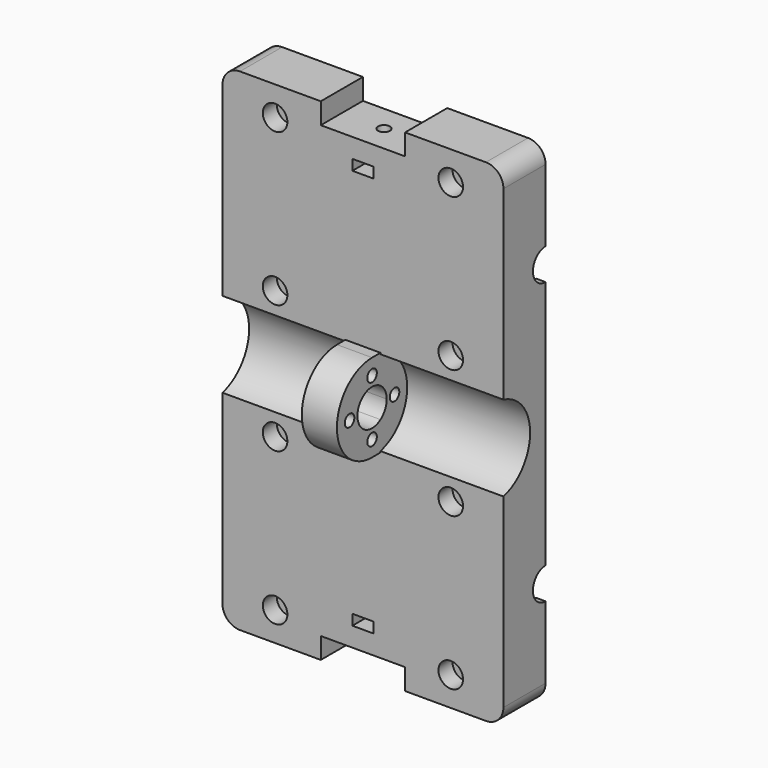
from build123d import *

# Parameters (mm, degrees)
F0_W      = 6
F0_H      = 3
F1_DEPTH  = 15
F4_DEPTH  = 80
F2_W      = 2.7
F2_H      = 15.4
F5_DEPTH  = 10
F2_R      = 1.7
F6_DEPTH  = 25
F2_R_2    = 3.5
F7_DEPTH  = 25
F8_DEPTH  = 10
F9_W      = 10
F9_H      = 25
F10_DEPTH = 25
F11_R     = 1.7
F13_DEPTH = 50
F14_DEPTH = 50
F12_R     = 1.7
F15_DEPTH = 6
F16_DEPTH = 10
F17_DEPTH = 18
F18_R     = 1.7
F19_DEPTH = 6
F20_DEPTH = 25
F21_DEPTH = 18
F22_DEPTH = 80


with BuildPart() as f1:
    # F0 (on Front) → F1 (new body)
    with BuildSketch(Plane.XZ):
        with BuildLine():
            Line((35, 70), (-35, 70))
            ThreePointArc((-35, 70), (-38.5355339059, 68.5355339059), (-40, 65))
            Line((-40, 65), (-40, -65))
            ThreePointArc((-40, -65), (-38.5355339059, -68.5355339059), (-35, -70))
            Line((-35, -70), (35, -70))
            ThreePointArc((35, -70), (38.5355339059, -68.5355339059), (40, -65))
            Line((40, -65), (40, 65))
            ThreePointArc((40, 65), (38.5355339059, 68.5355339059), (35, 70))
        make_face()
        with Locations((0, -57)):
            Rectangle(F0_W, F0_H, mode=Mode.SUBTRACT)
        with Locations((0, 57)):
            Rectangle(F0_W, F0_H, mode=Mode.SUBTRACT)
    extrude(amount=F1_DEPTH)

    # F3 (on face) → F4 (cut)
    with BuildSketch(Plane(origin=(-40, 0, 0), x_dir=(0, -1, 0), z_dir=(-1, 0, 0))):
        with BuildLine():
            ThreePointArc((0, 32.3), (5.4447222151, 34.5552777849), (7.7, 40))
            ThreePointArc((7.7, 40), (5.4447222151, 45.4447222151), (0, 47.7))
            Line((0, 47.7), (0, 44.5))
            ThreePointArc((0, 44.5), (3.1819805153, 43.1819805153), (4.5, 40))
            ThreePointArc((4.5, 40), (3.1819805153, 36.8180194847), (0, 35.5))
            Line((0, 35.5), (0, 32.3))
        make_face()
        with BuildLine():
            ThreePointArc((7.7, -40), (5.4447222151, -34.5552777849), (0, -32.3))
            Line((0, -32.3), (0, -35.5))
            ThreePointArc((0, -35.5), (3.1819805153, -36.8180194847), (4.5, -40))
            ThreePointArc((4.5, -40), (3.1819805153, -43.1819805153), (0, -44.5))
            Line((0, -44.5), (0, -47.7))
            ThreePointArc((0, -47.7), (5.4447222151, -45.4447222151), (7.7, -40))
        make_face()
    extrude(amount=-F4_DEPTH, mode=Mode.SUBTRACT)

    # F2 (on face) → F5 (join)
    with BuildSketch(Plane(origin=(0, 0, 0), x_dir=(-1, 0, 0), z_dir=(0, 1, 0))):
        with Locations((-38.65, 40)):
            Rectangle(F2_W, F2_H)
        Polygon((12.7, 47.7), (0, 47.7), (-12.7, 47.7), (-12.7, 32.3), (0, 32.3), (12.7, 32.3), align=None)
        with Locations((38.65, 40)):
            Rectangle(F2_W, F2_H)
        with Locations((-38.65, -40)):
            Rectangle(F2_W, F2_H)
        Polygon((0, -32.3), (-12.7, -32.3), (-12.7, -47.7), (0, -47.7), (12.7, -47.7), (12.7, -32.3), align=None)
        with Locations((38.65, -40)):
            Rectangle(F2_W, F2_H)
    extrude(amount=-F5_DEPTH)

    # F2 (on face) → F6 (cut)
    with BuildSketch(Plane(origin=(0, 0, 0), x_dir=(-1, 0, 0), z_dir=(0, 1, 0))):
        with Locations((-25, 61.7)):
            Circle(F2_R)
        with Locations((25, 61.7)):
            Circle(F2_R)
        with Locations((-25, 18.3)):
            Circle(F2_R)
        with Locations((25, 18.3)):
            Circle(F2_R)
        with Locations((-25, -18.3)):
            Circle(F2_R)
        with Locations((25, -18.3)):
            Circle(F2_R)
        with Locations((-25, -61.7)):
            Circle(F2_R)
        with Locations((25, -61.7)):
            Circle(F2_R)
    extrude(amount=-F6_DEPTH, mode=Mode.SUBTRACT)

    # F2 (on face) → F7 (cut)
    with BuildSketch(Plane(origin=(0, 0, 0), x_dir=(-1, 0, 0), z_dir=(0, 1, 0))):
        with Locations((-25, 61.7)):
            Circle(F2_R_2)
        with Locations((-25, 61.7)):
            Circle(F2_R, mode=Mode.SUBTRACT)
        with Locations((25, 61.7)):
            Circle(F2_R_2)
        with Locations((25, 61.7)):
            Circle(F2_R, mode=Mode.SUBTRACT)
        with Locations((-25, 18.3)):
            Circle(F2_R_2)
        with Locations((-25, 18.3)):
            Circle(F2_R, mode=Mode.SUBTRACT)
        with Locations((25, 18.3)):
            Circle(F2_R_2)
        with Locations((25, 18.3)):
            Circle(F2_R, mode=Mode.SUBTRACT)
        with Locations((-25, -18.3)):
            Circle(F2_R_2)
        with Locations((-25, -18.3)):
            Circle(F2_R, mode=Mode.SUBTRACT)
        with Locations((25, -18.3)):
            Circle(F2_R_2)
        with Locations((25, -18.3)):
            Circle(F2_R, mode=Mode.SUBTRACT)
        with Locations((-25, -61.7)):
            Circle(F2_R_2)
        with Locations((-25, -61.7)):
            Circle(F2_R, mode=Mode.SUBTRACT)
        with Locations((25, -61.7)):
            Circle(F2_R_2)
        with Locations((25, -61.7)):
            Circle(F2_R, mode=Mode.SUBTRACT)
    extrude(amount=-F7_DEPTH, mode=Mode.SUBTRACT)

    # F2 (on face) → F8 (join)
    with BuildSketch(Plane(origin=(0, 0, 0), x_dir=(-1, 0, 0), z_dir=(0, 1, 0))):
        with Locations((-25, 61.7)):
            Circle(F2_R_2)
        with Locations((-25, 61.7)):
            Circle(F2_R, mode=Mode.SUBTRACT)
        with Locations((25, 61.7)):
            Circle(F2_R_2)
        with Locations((25, 61.7)):
            Circle(F2_R, mode=Mode.SUBTRACT)
        with Locations((-25, 18.3)):
            Circle(F2_R_2)
        with Locations((-25, 18.3)):
            Circle(F2_R, mode=Mode.SUBTRACT)
        with Locations((25, 18.3)):
            Circle(F2_R_2)
        with Locations((25, 18.3)):
            Circle(F2_R, mode=Mode.SUBTRACT)
        with Locations((-25, -18.3)):
            Circle(F2_R_2)
        with Locations((-25, -18.3)):
            Circle(F2_R, mode=Mode.SUBTRACT)
        with Locations((25, -18.3)):
            Circle(F2_R_2)
        with Locations((25, -18.3)):
            Circle(F2_R, mode=Mode.SUBTRACT)
        with Locations((-25, -61.7)):
            Circle(F2_R_2)
        with Locations((-25, -61.7)):
            Circle(F2_R, mode=Mode.SUBTRACT)
        with Locations((25, -61.7)):
            Circle(F2_R_2)
        with Locations((25, -61.7)):
            Circle(F2_R, mode=Mode.SUBTRACT)
    extrude(amount=-F8_DEPTH)

    # F9 (on face) → F10 (join)
    with BuildSketch(Plane.XZ.offset(15)):
        Rectangle(F9_W, F9_H)
    extrude(amount=F10_DEPTH)

    # F11 (on face) → F13 (cut, symmetric)
    with BuildSketch(Plane.YZ.offset(5)):
        with BuildLine():
            ThreePointArc((-15, -4.2473521163), (-13.3826414478, -2.3916521486), (-12.8, 0))
            ThreePointArc((-12.8, 0), (-13.3826414478, 2.3916521486), (-15, 4.2473521163))
            Line((-15, 4.2473521163), (-15, -4.2473521163))
        make_face()
        with BuildLine():
            Line((-15, -4.2473521163), (-15, 4.2473521163))
            ThreePointArc((-15, 4.2473521163), (-23.2, 0), (-15, -4.2473521163))
        make_face()
        with Locations((-18, 8)):
            Circle(F11_R)
        with Locations((-26, 0)):
            Circle(F11_R)
        with Locations((-18, -8)):
            Circle(F11_R)
        with Locations((-10, 0)):
            Circle(F11_R)
        with BuildLine():
            ThreePointArc((-18, -12.5), (-30.5, 0), (-18, 12.5))
            Line((-18, 12.5), (-40, 12.5))
            Line((-40, 12.5), (-40, -12.5))
            Line((-40, -12.5), (-18, -12.5))
        make_face()
    extrude(amount=F13_DEPTH, both=True, mode=Mode.SUBTRACT)

    # F11 (on face) → F14 (cut, symmetric)
    with BuildSketch(Plane.YZ.offset(5)):
        with BuildLine():
            ThreePointArc((-15, -4.2473521163), (-23.2, 0), (-15, 4.2473521163))
            Line((-15, 4.2473521163), (-15, 12.1346610995))
            ThreePointArc((-15, 12.1346610995), (-16.4889182259, 12.408329133), (-18, 12.5))
            ThreePointArc((-18, 12.5), (-30.5, 0), (-18, -12.5))
            ThreePointArc((-18, -12.5), (-16.4889182259, -12.408329133), (-15, -12.1346610995))
            Line((-15, -12.1346610995), (-15, -4.2473521163))
        make_face()
        with Locations((-18, -8)):
            Circle(F11_R, mode=Mode.SUBTRACT)
        with Locations((-26, 0)):
            Circle(F11_R, mode=Mode.SUBTRACT)
        with Locations((-18, 8)):
            Circle(F11_R, mode=Mode.SUBTRACT)
        with BuildLine():
            ThreePointArc((-15, 4.2473521163), (-13.3826414478, 2.3916521486), (-12.8, 0))
            ThreePointArc((-12.8, 0), (-13.3826414478, -2.3916521486), (-15, -4.2473521163))
            Line((-15, -4.2473521163), (-15, -12.1346610995))
            ThreePointArc((-15, -12.1346610995), (-8.1574901575, -7.7055175037), (-5.5, 0))
            ThreePointArc((-5.5, 0), (-8.1574901575, 7.7055175037), (-15, 12.1346610995))
            Line((-15, 12.1346610995), (-15, 4.2473521163))
        make_face()
        with Locations((-10, 0)):
            Circle(F11_R, mode=Mode.SUBTRACT)
    extrude(amount=F14_DEPTH, both=True, mode=Mode.SUBTRACT)

    # F12 (on face) → F15 (cut)
    with BuildSketch(Plane.XY.offset(70)):
        Polygon((12, 0), (0, 0), (-12, 0), (-12, -15), (12, -15), align=None)
        with Locations((0, -7.5)):
            Circle(F12_R, mode=Mode.SUBTRACT)
    extrude(amount=-F15_DEPTH, mode=Mode.SUBTRACT)

    # F11 (on face) → F16 (join)
    with BuildSketch(Plane.YZ.offset(5)):
        with BuildLine():
            ThreePointArc((-15, -4.2473521163), (-23.2, 0), (-15, 4.2473521163))
            Line((-15, 4.2473521163), (-15, 12.1346610995))
            ThreePointArc((-15, 12.1346610995), (-16.4889182259, 12.408329133), (-18, 12.5))
            ThreePointArc((-18, 12.5), (-30.5, 0), (-18, -12.5))
            ThreePointArc((-18, -12.5), (-16.4889182259, -12.408329133), (-15, -12.1346610995))
            Line((-15, -12.1346610995), (-15, -4.2473521163))
        make_face()
        with Locations((-18, -8)):
            Circle(F11_R, mode=Mode.SUBTRACT)
        with Locations((-26, 0)):
            Circle(F11_R, mode=Mode.SUBTRACT)
        with Locations((-18, 8)):
            Circle(F11_R, mode=Mode.SUBTRACT)
        with BuildLine():
            ThreePointArc((-15, 4.2473521163), (-13.3826414478, 2.3916521486), (-12.8, 0))
            ThreePointArc((-12.8, 0), (-13.3826414478, -2.3916521486), (-15, -4.2473521163))
            Line((-15, -4.2473521163), (-15, -12.1346610995))
            ThreePointArc((-15, -12.1346610995), (-8.1574901575, -7.7055175037), (-5.5, 0))
            ThreePointArc((-5.5, 0), (-8.1574901575, 7.7055175037), (-15, 12.1346610995))
            Line((-15, 12.1346610995), (-15, 4.2473521163))
        make_face()
        with Locations((-10, 0)):
            Circle(F11_R, mode=Mode.SUBTRACT)
    extrude(amount=-F16_DEPTH)

    # F12 (on face) → F17 (cut)
    with BuildSketch(Plane.XY.offset(70)):
        with Locations((0, -7.5)):
            Circle(F12_R)
    extrude(amount=-F17_DEPTH, mode=Mode.SUBTRACT)

    # F18 (on face) → F19 (cut)
    with BuildSketch(Plane(origin=(0, 0, -70), x_dir=(1, 0, 0), z_dir=(0, 0, -1))):
        Polygon((-12, 0), (0, 0), (12, 0), (12, 15), (-12, 15), align=None)
        with Locations((0, 7.5)):
            Circle(F18_R, mode=Mode.SUBTRACT)
    extrude(amount=-F19_DEPTH, mode=Mode.SUBTRACT)

    # F0 (on Front) → F20 (cut)
    with BuildSketch(Plane.XZ):
        with Locations((0, -57)):
            Rectangle(F0_W, F0_H)
    extrude(amount=-F20_DEPTH, mode=Mode.SUBTRACT)

    # F18 (on face) → F21 (cut)
    with BuildSketch(Plane(origin=(0, 0, -70), x_dir=(1, 0, 0), z_dir=(0, 0, -1))):
        with Locations((0, 7.5)):
            Circle(F18_R)
    extrude(amount=-F21_DEPTH, mode=Mode.SUBTRACT)

    # F3 (on face) → F22 (cut)
    with BuildSketch(Plane(origin=(-40, 0, 0), x_dir=(0, -1, 0), z_dir=(-1, 0, 0))):
        with BuildLine():
            ThreePointArc((4.5, -40), (3.1819805153, -36.8180194847), (0, -35.5))
            Line((0, -35.5), (0, -44.5))
            ThreePointArc((0, -44.5), (3.1819805153, -43.1819805153), (4.5, -40))
        make_face()
        with BuildLine():
            Line((0, -44.5), (0, -35.5))
            ThreePointArc((0, -35.5), (-4.5, -40), (0, -44.5))
        make_face()
        with BuildLine():
            Line((0, 35.5), (0, 44.5))
            ThreePointArc((0, 44.5), (-4.5, 40), (0, 35.5))
        make_face()
        with BuildLine():
            ThreePointArc((4.5, 40), (3.1819805153, 43.1819805153), (0, 44.5))
            Line((0, 44.5), (0, 35.5))
            ThreePointArc((0, 35.5), (3.1819805153, 36.8180194847), (4.5, 40))
        make_face()
    extrude(amount=-F22_DEPTH, mode=Mode.SUBTRACT)


solid = f1.part
